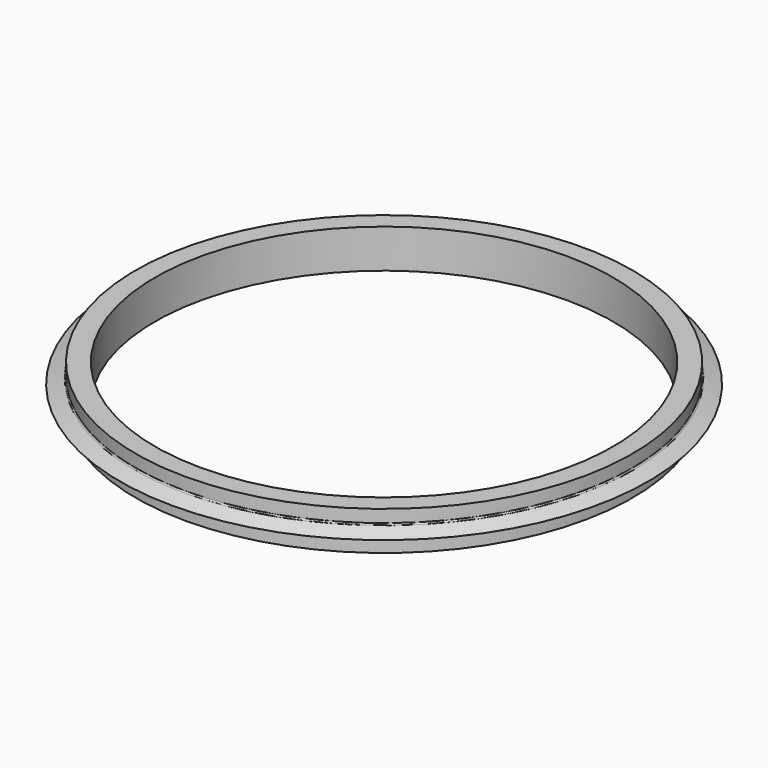
from build123d import *

# Parameters (mm, degrees)
F3_R = 0.2


with BuildPart() as f2:
    # F1 (on Right) → F2 (revolve)
    with BuildSketch(Plane.YZ):
        Polygon((-29.5, -2.5), (-29.5, 2.5), (-32, 2.5), (-32, 0.75), (-32, -0.75), (-32, -2.5), align=None)
        Polygon((-32, -0.75), (-32, 0.75), (-34, 0), align=None)
    revolve(axis=Axis((0, 0, 0.223784), (0, 0, -1)))

    # F3
    f3_edges = [f2.edges().sort_by_distance(p)[0] for p in [
        (0, 32, 0.75),
    ]]
    fillet(f3_edges, radius=F3_R)


solid = f2.part
